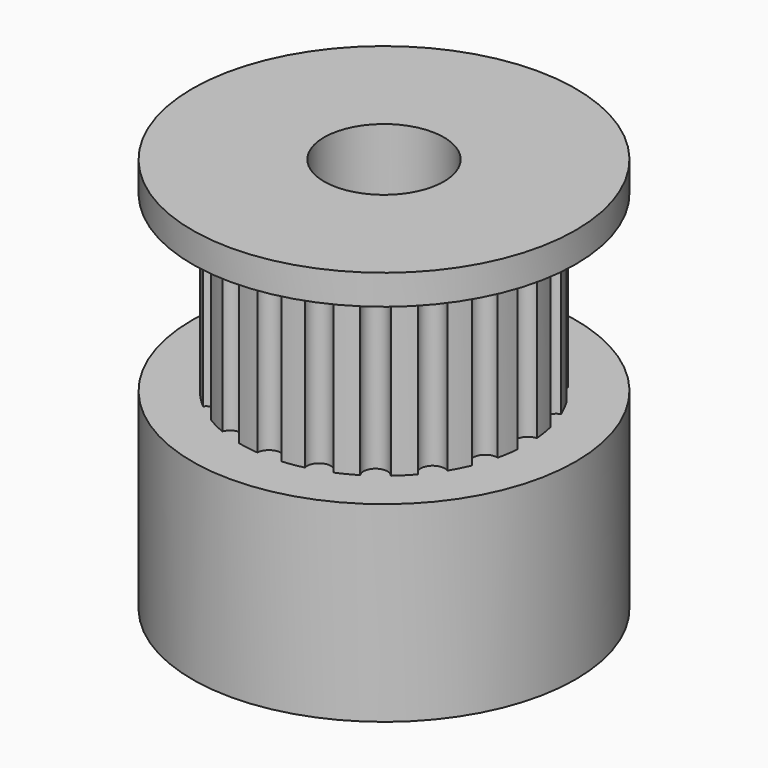
from build123d import *

# Parameters (mm, degrees)
SKETCH025_R              = 8
PAD014_DEPTH             = 8
SKETCH026_R              = 6
PAD015_DEPTH             = 7.25
SKETCH027_R              = 0.5
POCKET008_DEPTH          = 7.25
POLARPATTERN_COUNT       = 20
SKETCH028_R              = 8
PAD016_DEPTH             = 1.25
SKETCH029_R              = 2.5
POCKET009_DEPTH          = 16.5
CLONE007_PLACEMENT_ANGLE = 180


with BuildPart() as part:
    # Sketch025 → Pad014 (new body)
    with BuildSketch(Plane(origin=(20, -80, 0), x_dir=(1, 0, 0), z_dir=(0, 0, -1))):
        Circle(SKETCH025_R)
    extrude(amount=PAD014_DEPTH)

    # Sketch026 → Pad015 (new body)
    with BuildSketch(Plane(origin=(20, -80, -8), x_dir=(1, 0, 0), z_dir=(0, 0, -1))):
        Circle(SKETCH026_R)
    extrude(amount=PAD015_DEPTH)

    # Sketch027 → Pocket008 (cut)
    with BuildSketch(Plane(origin=(20, -80, -15.25), x_dir=(1, 0, 0), z_dir=(0, 0, -1))):
        with Locations((6, 0)):
            Circle(SKETCH027_R)
    pocket008 = extrude(amount=-POCKET008_DEPTH, mode=Mode.SUBTRACT)

    # PolarPattern: Pocket008 ×20 about axis
    polarpattern_axis = Axis((20, -80, -15.25), (0, 0, -1))
    for i in range(1, POLARPATTERN_COUNT):
        add(pocket008.rotate(polarpattern_axis, i * 360 / POLARPATTERN_COUNT), mode=Mode.SUBTRACT)

    # Sketch028 → Pad016 (new body)
    with BuildSketch(Plane(origin=(20, -80, -15.25), x_dir=(1, 0, 0), z_dir=(0, 0, -1))):
        Circle(SKETCH028_R)
    extrude(amount=PAD016_DEPTH)

    # Sketch029 → Pocket009 (cut)
    with BuildSketch(Plane(origin=(20, -80, -16.5), x_dir=(1, 0, 0), z_dir=(0, 0, -1))):
        Circle(SKETCH029_R)
    extrude(amount=-POCKET009_DEPTH, mode=Mode.SUBTRACT)


with BuildPart() as part_1:
    # Clone007 placement: moved
    add(part.part.moved(Location((34, 192, -13))).rotate(Axis((34, 192, -13), (0, -1, 0)), CLONE007_PLACEMENT_ANGLE))


with BuildPart() as part_2:
    # Clone008 placement: moved
    add(part_1.part.moved(Location((-31.5, 0, 0))))


solid = part_2.part
